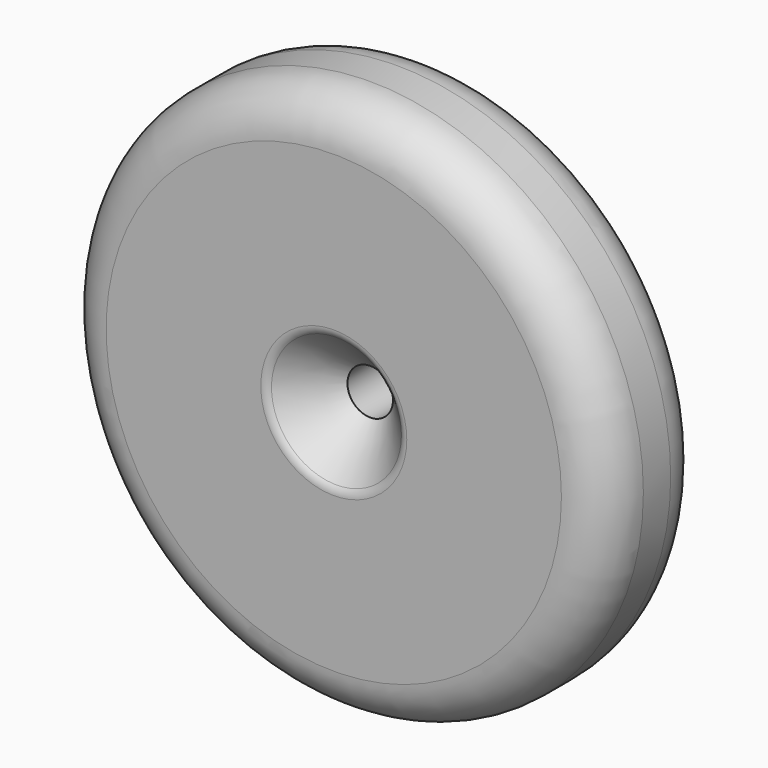
from build123d import *

# Parameters (mm, degrees)
F0_R     = 120
F0_R_2   = 10
F1_DEPTH = 55
F2_R     = 20
F3_SIZE  = 20
F4_R     = 5


with BuildPart() as f1:
    # F0 (on Front) → F1 (new body)
    with BuildSketch(Plane.XZ):
        with Locations((-49.9732643366, 9.9665783346)):
            Circle(F0_R)
        with Locations((-49.9732643366, 9.9665783346)):
            Circle(F0_R_2, mode=Mode.SUBTRACT)
    extrude(amount=F1_DEPTH)

    # F2
    f2_edges = [f1.edges().sort_by_distance(p)[0] for p in [
        (-169.973264, -55, 9.966578),
        (-169.973264, 0, 9.966578),
    ]]
    fillet(f2_edges, radius=F2_R)

    # F3
    f3_edges = [f1.edges().sort_by_distance(p)[0] for p in [
        (-59.973264, -55, 9.966578),
    ]]
    chamfer(f3_edges, length=F3_SIZE)

    # F4
    f4_edges = [f1.edges().sort_by_distance(p)[0] for p in [
        (-79.973264, -55, 9.966578),
        (-149.973264, -55, 9.966578),
    ]]
    fillet(f4_edges, radius=F4_R)


solid = f1.part
